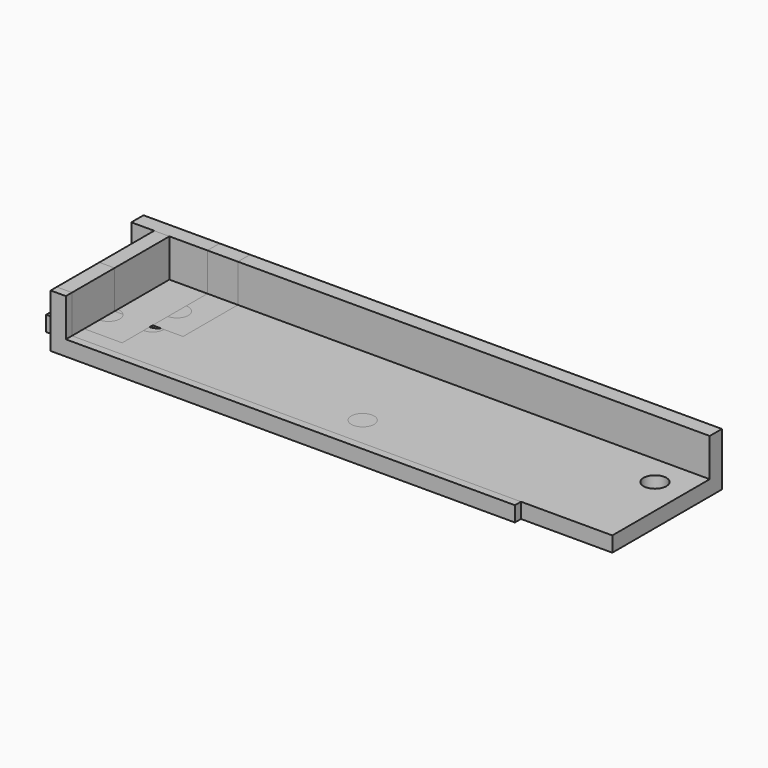
from build123d import *

# Parameters (mm, degrees)
SKETCH_W        = 61
SKETCH_H        = 19
SKETCH_R        = 1.5
PAD_DEPTH       = 2
PAD001_DEPTH    = 5
CHAMFER003_SIZE = 0.4
SKETCH002_W     = 73
SKETCH002_H     = 18
SKETCH002_R     = 1.5
PAD002_DEPTH    = 2
PAD003_DEPTH    = 5
CHAMFER002_SIZE = 0.4
SKETCH004_W     = 11
SKETCH004_H     = 11
SKETCH004_R     = 1.5
PAD004_DEPTH    = 2
PAD005_DEPTH    = 5
CHAMFER001_SIZE = 0.4
SKETCH006_W     = 10
SKETCH006_H     = 16
SKETCH006_R     = 1.5
PAD006_DEPTH    = 2
SKETCH007_W     = 10
SKETCH007_H     = 2
PAD007_DEPTH    = 5
CHAMFER_SIZE    = 0.4


with BuildPart() as obj1:
    # Sketch → Pad (new body)
    with BuildSketch(Plane.XY):
        with Locations((28.5, -7.5)):
            Rectangle(SKETCH_W, SKETCH_H)
        with Locations((5, -8)):
            Circle(SKETCH_R, mode=Mode.SUBTRACT)
        with Locations((40, -13)):
            Circle(SKETCH_R, mode=Mode.SUBTRACT)
        with Locations((55, -3)):
            Circle(SKETCH_R, mode=Mode.SUBTRACT)
    extrude(amount=PAD_DEPTH)

    # Sketch001 (on Face9 of Pad) → Pad001 (join)
    with BuildSketch(Plane.XY.offset(2)):
        Polygon((59, 0), (59, 2), (-2, 2), (-2, -17), (0, -17), (0, 0), align=None)
    extrude(amount=PAD001_DEPTH)

    # Chamfer003
    chamfer003_edges = [obj1.edges().sort_by_distance(p)[0] for p in [
        (3.5, -8, 0),
        (38.5, -13, 0),
        (53.5, -3, 0),
    ]]
    chamfer(chamfer003_edges, length=CHAMFER003_SIZE)


with BuildPart() as obj2:
    # Sketch002 → Pad002 (new body)
    with BuildSketch(Plane.XY):
        with Locations((34.5, -7)):
            Rectangle(SKETCH002_W, SKETCH002_H)
        with Locations((5, -9)):
            Circle(SKETCH002_R, mode=Mode.SUBTRACT)
        with Locations((35, -12)):
            Circle(SKETCH002_R, mode=Mode.SUBTRACT)
        with Locations((67, -4)):
            Circle(SKETCH002_R, mode=Mode.SUBTRACT)
    extrude(amount=PAD002_DEPTH)

    # Sketch003 (on Face9 of Pad002) → Pad003 (join)
    with BuildSketch(Plane.XY.offset(2)):
        Polygon((-2, -16), (-2, 2), (71, 2), (71, 0), (0, 0), (0, -16), align=None)
    extrude(amount=PAD003_DEPTH)

    # Chamfer002
    chamfer002_edges = [obj2.edges().sort_by_distance(p)[0] for p in [
        (3.5, -9, 0),
        (33.5, -12, 0),
        (65.5, -4, 0),
    ]]
    chamfer(chamfer002_edges, length=CHAMFER002_SIZE)


with BuildPart() as corner:
    # Sketch004 → Pad004 (new body)
    with BuildSketch(Plane.XY):
        with Locations((3.5, -3.5)):
            Rectangle(SKETCH004_W, SKETCH004_H)
        with Locations((5, -5)):
            Circle(SKETCH004_R, mode=Mode.SUBTRACT)
    extrude(amount=PAD004_DEPTH)

    # Sketch005 (on Face7 of Pad004) → Pad005 (join)
    with BuildSketch(Plane.XY.offset(2)):
        Polygon((-2, 2), (-2, -9), (0, -9), (0, 0), (9, 0), (9, 2), align=None)
    extrude(amount=PAD005_DEPTH)

    # Chamfer001
    chamfer001_edges = [corner.edges().sort_by_distance(p)[0] for p in [
        (3.5, -5, 0),
    ]]
    chamfer(chamfer001_edges, length=CHAMFER001_SIZE)


with BuildPart() as center:
    # Sketch006 → Pad006 (new body)
    with BuildSketch(Plane.XY):
        with Locations((0, -6)):
            Rectangle(SKETCH006_W, SKETCH006_H)
        with Locations((0, -10)):
            Circle(SKETCH006_R, mode=Mode.SUBTRACT)
    extrude(amount=PAD006_DEPTH)

    # Sketch007 (on Face7 of Pad006) → Pad007 (join)
    with BuildSketch(Plane.XY.offset(2)):
        with Locations((0, 1)):
            Rectangle(SKETCH007_W, SKETCH007_H)
    extrude(amount=PAD007_DEPTH)

    # Chamfer
    chamfer_edges = [center.edges().sort_by_distance(p)[0] for p in [
        (-1.5, -10, 0),
    ]]
    chamfer(chamfer_edges, length=CHAMFER_SIZE)


solid = Compound([obj1.part, obj2.part, corner.part, center.part])
